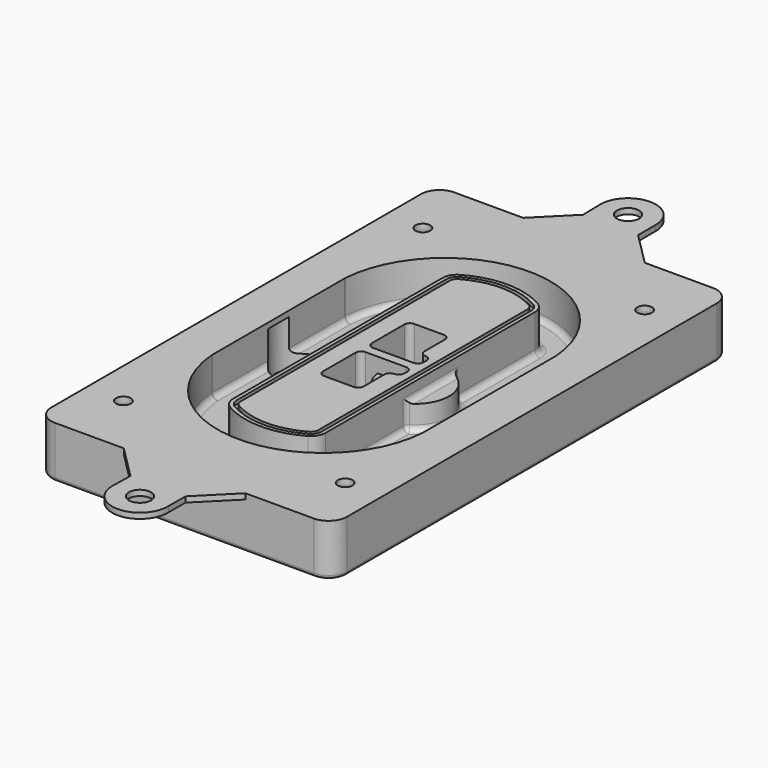
from build123d import *

# Parameters (mm, degrees)
F0_R      = 4
F1_DEPTH  = 25
F2_DEPTH  = 3
F3_DEPTH  = 18
F5_DEPTH  = 21
F6_DEPTH  = 2
F8_DEPTH  = 20
F9_DEPTH  = 16
F10_DEPTH = 25
F7_R      = 6
F7_R_2    = 4
F11_DEPTH = 6
F13_DEPTH = 9
F14_R     = 3
F15_R     = 2
F16_R     = 6
F16_R_2   = 4
F17_DEPTH = 3


with BuildPart() as f1:
    # F0 (on Top) → F1 (new body)
    with BuildSketch(Plane.XY):
        with BuildLine():
            ThreePointArc((-80, -125), (-77.0710678119, -132.0710678119), (-70, -135))
            Line((-70, -135), (70, -135))
            ThreePointArc((70, -135), (77.0710678119, -132.0710678119), (80, -125))
            Line((80, -125), (80, 125))
            ThreePointArc((80, 125), (77.0710678119, 132.0710678119), (70, 135))
            Line((70, 135), (-70, 135))
            ThreePointArc((-70, 135), (-77.0710678119, 132.0710678119), (-80, 125))
            Line((-80, 125), (-80, -125))
        make_face()
        with Locations((-60, -101.25)):
            Circle(F0_R, mode=Mode.SUBTRACT)
        with Locations((60, -101.25)):
            Circle(F0_R, mode=Mode.SUBTRACT)
        with Locations((-60, 101.25)):
            Circle(F0_R, mode=Mode.SUBTRACT)
        with BuildLine():
            ThreePointArc((-64, 44.6627429245), (-63.991269098, 45.1571001106), (-63.9650872818, 45.650840699))
            ThreePointArc((-63.9650872818, 45.650840699), (0, 105.25), (63.9650872818, 45.650840699))
            ThreePointArc((63.9650872818, 45.650840699), (63.991269098, 45.1571001106), (64, 44.6627429245))
            Line((64, 44.6627429245), (64, -44.6627429245))
            ThreePointArc((64, -44.6627429245), (63.991269098, -45.1571001106), (63.9650872818, -45.650840699))
            ThreePointArc((63.9650872818, -45.650840699), (0, -105.25), (-63.9650872818, -45.650840699))
            ThreePointArc((-63.9650872818, -45.650840699), (-63.991269098, -45.1571001106), (-64, -44.6627429245))
            Line((-64, -44.6627429245), (-64, 44.6627429245))
        make_face(mode=Mode.SUBTRACT)
        with Locations((60, 101.25)):
            Circle(F0_R, mode=Mode.SUBTRACT)
        with BuildLine():
            ThreePointArc((63.9650872818, 45.650840699), (0, 105.25), (-63.9650872818, 45.650840699))
            ThreePointArc((-63.9650872818, 45.650840699), (-63.991269098, 45.1571001106), (-64, 44.6627429245))
            Line((-64, 44.6627429245), (-64, -44.6627429245))
            ThreePointArc((-64, -44.6627429245), (-63.991269098, -45.1571001106), (-63.9650872818, -45.650840699))
            ThreePointArc((-63.9650872818, -45.650840699), (0, -105.25), (63.9650872818, -45.650840699))
            ThreePointArc((63.9650872818, -45.650840699), (63.991269098, -45.1571001106), (64, -44.6627429245))
            Line((64, -44.6627429245), (64, 44.6627429245))
            ThreePointArc((64, 44.6627429245), (63.991269098, 45.1571001106), (63.9650872818, 45.650840699))
        make_face()
        with BuildLine():
            Line((-60, -44.6627429245), (-60, 44.6627429245))
            ThreePointArc((-60, 44.6627429245), (-59.9937636414, 45.0158552003), (-59.9750623441, 45.3685270491))
            ThreePointArc((-59.9750623441, 45.3685270491), (0, 101.25), (59.9750623441, 45.3685270491))
            ThreePointArc((59.9750623441, 45.3685270491), (59.9937636414, 45.0158552003), (60, 44.6627429245))
            Line((60, 44.6627429245), (60, -44.6627429245))
            ThreePointArc((60, -44.6627429245), (59.9937636414, -45.0158552003), (59.9750623441, -45.3685270491))
            ThreePointArc((59.9750623441, -45.3685270491), (0, -101.25), (-59.9750623441, -45.3685270491))
            ThreePointArc((-59.9750623441, -45.3685270491), (-59.9937636414, -45.0158552003), (-60, -44.6627429245))
        make_face(mode=Mode.SUBTRACT)
        with BuildLine():
            ThreePointArc((-59.9750623441, 45.3685270491), (-59.9937636414, 45.0158552003), (-60, 44.6627429245))
            Line((-60, 44.6627429245), (-60, -44.6627429245))
            ThreePointArc((-60, -44.6627429245), (-59.9937636414, -45.0158552003), (-59.9750623441, -45.3685270491))
            ThreePointArc((-59.9750623441, -45.3685270491), (0, -101.25), (59.9750623441, -45.3685270491))
            ThreePointArc((59.9750623441, -45.3685270491), (59.9937636414, -45.0158552003), (60, -44.6627429245))
            Line((60, -44.6627429245), (60, 44.6627429245))
            ThreePointArc((60, 44.6627429245), (59.9937636414, 45.0158552003), (59.9750623441, 45.3685270491))
            ThreePointArc((59.9750623441, 45.3685270491), (0, 101.25), (-59.9750623441, 45.3685270491))
        make_face()
        with BuildLine():
            ThreePointArc((56.9825436409, 45.1567918117), (56.995634549, 44.9099215176), (57, 44.6627429245))
            Line((57, 44.6627429245), (57, -44.6627429245))
            ThreePointArc((57, -44.6627429245), (56.995634549, -44.9099215176), (56.9825436409, -45.1567918117))
            ThreePointArc((56.9825436409, -45.1567918117), (0, -98.25), (-56.9825436409, -45.1567918117))
            ThreePointArc((-56.9825436409, -45.1567918117), (-56.995634549, -44.9099215176), (-57, -44.6627429245))
            Line((-57, -44.6627429245), (-57, 44.6627429245))
            ThreePointArc((-57, 44.6627429245), (-56.995634549, 44.9099215176), (-56.9825436409, 45.1567918117))
            ThreePointArc((-56.9825436409, 45.1567918117), (0, 98.25), (56.9825436409, 45.1567918117))
        make_face(mode=Mode.SUBTRACT)
        with BuildLine():
            Line((57, -44.6627429245), (57, 44.6627429245))
            ThreePointArc((57, 44.6627429245), (56.995634549, 44.9099215176), (56.9825436409, 45.1567918117))
            ThreePointArc((56.9825436409, 45.1567918117), (0, 98.25), (-56.9825436409, 45.1567918117))
            ThreePointArc((-56.9825436409, 45.1567918117), (-56.995634549, 44.9099215176), (-57, 44.6627429245))
            Line((-57, 44.6627429245), (-57, -44.6627429245))
            ThreePointArc((-57, -44.6627429245), (-56.995634549, -44.9099215176), (-56.9825436409, -45.1567918117))
            ThreePointArc((-56.9825436409, -45.1567918117), (0, -98.25), (56.9825436409, -45.1567918117))
            ThreePointArc((56.9825436409, -45.1567918117), (56.995634549, -44.9099215176), (57, -44.6627429245))
        make_face()
    extrude(amount=-F1_DEPTH)

    # F0 (on Top) → F2 (join)
    with BuildSketch(Plane.XY):
        with BuildLine():
            ThreePointArc((-59.9750623441, 45.3685270491), (-59.9937636414, 45.0158552003), (-60, 44.6627429245))
            Line((-60, 44.6627429245), (-60, -44.6627429245))
            ThreePointArc((-60, -44.6627429245), (-59.9937636414, -45.0158552003), (-59.9750623441, -45.3685270491))
            ThreePointArc((-59.9750623441, -45.3685270491), (0, -101.25), (59.9750623441, -45.3685270491))
            ThreePointArc((59.9750623441, -45.3685270491), (59.9937636414, -45.0158552003), (60, -44.6627429245))
            Line((60, -44.6627429245), (60, 44.6627429245))
            ThreePointArc((60, 44.6627429245), (59.9937636414, 45.0158552003), (59.9750623441, 45.3685270491))
            ThreePointArc((59.9750623441, 45.3685270491), (0, 101.25), (-59.9750623441, 45.3685270491))
        make_face()
        with BuildLine():
            ThreePointArc((56.9825436409, 45.1567918117), (56.995634549, 44.9099215176), (57, 44.6627429245))
            Line((57, 44.6627429245), (57, -44.6627429245))
            ThreePointArc((57, -44.6627429245), (56.995634549, -44.9099215176), (56.9825436409, -45.1567918117))
            ThreePointArc((56.9825436409, -45.1567918117), (0, -98.25), (-56.9825436409, -45.1567918117))
            ThreePointArc((-56.9825436409, -45.1567918117), (-56.995634549, -44.9099215176), (-57, -44.6627429245))
            Line((-57, -44.6627429245), (-57, 44.6627429245))
            ThreePointArc((-57, 44.6627429245), (-56.995634549, 44.9099215176), (-56.9825436409, 45.1567918117))
            ThreePointArc((-56.9825436409, 45.1567918117), (0, 98.25), (56.9825436409, 45.1567918117))
        make_face(mode=Mode.SUBTRACT)
    extrude(amount=F2_DEPTH)

    # F0 (on Top) → F3 (cut)
    with BuildSketch(Plane.XY):
        with BuildLine():
            Line((57, -44.6627429245), (57, 44.6627429245))
            ThreePointArc((57, 44.6627429245), (56.995634549, 44.9099215176), (56.9825436409, 45.1567918117))
            ThreePointArc((56.9825436409, 45.1567918117), (0, 98.25), (-56.9825436409, 45.1567918117))
            ThreePointArc((-56.9825436409, 45.1567918117), (-56.995634549, 44.9099215176), (-57, 44.6627429245))
            Line((-57, 44.6627429245), (-57, -44.6627429245))
            ThreePointArc((-57, -44.6627429245), (-56.995634549, -44.9099215176), (-56.9825436409, -45.1567918117))
            ThreePointArc((-56.9825436409, -45.1567918117), (0, -98.25), (56.9825436409, -45.1567918117))
            ThreePointArc((56.9825436409, -45.1567918117), (56.995634549, -44.9099215176), (57, -44.6627429245))
        make_face()
    extrude(amount=-F3_DEPTH, mode=Mode.SUBTRACT)

    # F4 (on face) → F5 (join, through all)
    with BuildSketch(Plane.XY.offset(3)):
        with BuildLine():
            ThreePointArc((-25, -70.7141132851), (-23.9239722661, -74.7214325959), (-20.9853479853, -77.6507552274))
            ThreePointArc((-20.9853479853, -77.6507552274), (0, -83.25), (20.9853479853, -77.6507552274))
            ThreePointArc((20.9853479853, -77.6507552274), (23.9239722661, -74.7214325959), (25, -70.7141132851))
            Line((25, -70.7141132851), (25, 70.7141132851))
            ThreePointArc((25, 70.7141132851), (23.9239722661, 74.7214325959), (20.9853479853, 77.6507552274))
            ThreePointArc((20.9853479853, 77.6507552274), (0, 83.25), (-20.9853479853, 77.6507552274))
            ThreePointArc((-20.9853479853, 77.6507552274), (-23.9239722661, 74.7214325959), (-25, 70.7141132851))
            Line((-25, 70.7141132851), (-25, -70.7141132851))
        make_face()
        with BuildLine():
            ThreePointArc((19.989010989, 75.9165947419), (22.1929791996, 73.7196027682), (23, 70.7141132851))
            Line((23, 70.7141132851), (23, -70.7141132851))
            ThreePointArc((23, -70.7141132851), (22.1929791996, -73.7196027682), (19.989010989, -75.9165947419))
            ThreePointArc((19.989010989, -75.9165947419), (0, -81.25), (-19.989010989, -75.9165947419))
            ThreePointArc((-19.989010989, -75.9165947419), (-22.1929791996, -73.7196027682), (-23, -70.7141132851))
            Line((-23, -70.7141132851), (-23, 70.7141132851))
            ThreePointArc((-23, 70.7141132851), (-22.1929791996, 73.7196027682), (-19.989010989, 75.9165947419))
            ThreePointArc((-19.989010989, 75.9165947419), (0, 81.25), (19.989010989, 75.9165947419))
        make_face(mode=Mode.SUBTRACT)
        with BuildLine():
            Line((23, -70.7141132851), (23, 70.7141132851))
            ThreePointArc((23, 70.7141132851), (22.1929791996, 73.7196027682), (19.989010989, 75.9165947419))
            ThreePointArc((19.989010989, 75.9165947419), (0, 81.25), (-19.989010989, 75.9165947419))
            ThreePointArc((-19.989010989, 75.9165947419), (-22.1929791996, 73.7196027682), (-23, 70.7141132851))
            Line((-23, 70.7141132851), (-23, -70.7141132851))
            ThreePointArc((-23, -70.7141132851), (-22.1929791996, -73.7196027682), (-19.989010989, -75.9165947419))
            ThreePointArc((-19.989010989, -75.9165947419), (0, -81.25), (19.989010989, -75.9165947419))
            ThreePointArc((19.989010989, -75.9165947419), (22.1929791996, -73.7196027682), (23, -70.7141132851))
        make_face()
        with BuildLine():
            ThreePointArc((18.9926739927, 74.1824342563), (20.461986133, 72.7177729405), (21, 70.7141132851))
            Line((21, 70.7141132851), (21, -70.7141132851))
            ThreePointArc((21, -70.7141132851), (20.461986133, -72.7177729405), (18.9926739927, -74.1824342563))
            ThreePointArc((18.9926739927, -74.1824342563), (0, -79.25), (-18.9926739927, -74.1824342563))
            ThreePointArc((-18.9926739927, -74.1824342563), (-20.461986133, -72.7177729405), (-21, -70.7141132851))
            Line((-21, -70.7141132851), (-21, 70.7141132851))
            ThreePointArc((-21, 70.7141132851), (-20.461986133, 72.7177729405), (-18.9926739927, 74.1824342563))
            ThreePointArc((-18.9926739927, 74.1824342563), (0, 79.25), (18.9926739927, 74.1824342563))
        make_face(mode=Mode.SUBTRACT)
        with BuildLine():
            Line((21, -70.7141132851), (21, 70.7141132851))
            ThreePointArc((21, 70.7141132851), (20.461986133, 72.7177729405), (18.9926739927, 74.1824342563))
            ThreePointArc((18.9926739927, 74.1824342563), (0, 79.25), (-18.9926739927, 74.1824342563))
            ThreePointArc((-18.9926739927, 74.1824342563), (-20.461986133, 72.7177729405), (-21, 70.7141132851))
            Line((-21, 70.7141132851), (-21, -70.7141132851))
            ThreePointArc((-21, -70.7141132851), (-20.461986133, -72.7177729405), (-18.9926739927, -74.1824342563))
            ThreePointArc((-18.9926739927, -74.1824342563), (0, -79.25), (18.9926739927, -74.1824342563))
            ThreePointArc((18.9926739927, -74.1824342563), (20.461986133, -72.7177729405), (21, -70.7141132851))
        make_face()
        with BuildLine():
            Line((-8, -2.5), (14, -2.5))
            ThreePointArc((14, -2.5), (16.1213203436, -3.3786796564), (17, -5.5))
            Line((17, -5.5), (17, -7.5))
            ThreePointArc((17, -7.5), (16.1213203436, -9.6213203436), (14, -10.5))
            ThreePointArc((14, -10.5), (11.8786796564, -11.3786796564), (11, -13.5))
            Line((11, -13.5), (11, -27.5))
            ThreePointArc((11, -27.5), (10.1213203436, -29.6213203436), (8, -30.5))
            Line((8, -30.5), (-8, -30.5))
            ThreePointArc((-8, -30.5), (-10.1213203436, -29.6213203436), (-11, -27.5))
            Line((-11, -27.5), (-11, -5.5))
            ThreePointArc((-11, -5.5), (-10.1213203436, -3.3786796564), (-8, -2.5))
        make_face(mode=Mode.SUBTRACT)
        with BuildLine():
            ThreePointArc((-8, 2.5), (-10.1213203436, 3.3786796564), (-11, 5.5))
            Line((-11, 5.5), (-11, 27.5))
            ThreePointArc((-11, 27.5), (-10.1213203436, 29.6213203436), (-8, 30.5))
            Line((-8, 30.5), (8, 30.5))
            ThreePointArc((8, 30.5), (10.1213203436, 29.6213203436), (11, 27.5))
            Line((11, 27.5), (11, 13.5))
            ThreePointArc((11, 13.5), (11.8786796564, 11.3786796564), (14, 10.5))
            ThreePointArc((14, 10.5), (16.1213203436, 9.6213203436), (17, 7.5))
            Line((17, 7.5), (17, 5.5))
            ThreePointArc((17, 5.5), (16.1213203436, 3.3786796564), (14, 2.5))
            Line((14, 2.5), (-8, 2.5))
        make_face(mode=Mode.SUBTRACT)
    extrude(amount=-F5_DEPTH)

    # F4 (on face) → F6 (cut)
    with BuildSketch(Plane.XY.offset(3)):
        with BuildLine():
            Line((23, -70.7141132851), (23, 70.7141132851))
            ThreePointArc((23, 70.7141132851), (22.1929791996, 73.7196027682), (19.989010989, 75.9165947419))
            ThreePointArc((19.989010989, 75.9165947419), (0, 81.25), (-19.989010989, 75.9165947419))
            ThreePointArc((-19.989010989, 75.9165947419), (-22.1929791996, 73.7196027682), (-23, 70.7141132851))
            Line((-23, 70.7141132851), (-23, -70.7141132851))
            ThreePointArc((-23, -70.7141132851), (-22.1929791996, -73.7196027682), (-19.989010989, -75.9165947419))
            ThreePointArc((-19.989010989, -75.9165947419), (0, -81.25), (19.989010989, -75.9165947419))
            ThreePointArc((19.989010989, -75.9165947419), (22.1929791996, -73.7196027682), (23, -70.7141132851))
        make_face()
        with BuildLine():
            ThreePointArc((18.9926739927, 74.1824342563), (20.461986133, 72.7177729405), (21, 70.7141132851))
            Line((21, 70.7141132851), (21, -70.7141132851))
            ThreePointArc((21, -70.7141132851), (20.461986133, -72.7177729405), (18.9926739927, -74.1824342563))
            ThreePointArc((18.9926739927, -74.1824342563), (0, -79.25), (-18.9926739927, -74.1824342563))
            ThreePointArc((-18.9926739927, -74.1824342563), (-20.461986133, -72.7177729405), (-21, -70.7141132851))
            Line((-21, -70.7141132851), (-21, 70.7141132851))
            ThreePointArc((-21, 70.7141132851), (-20.461986133, 72.7177729405), (-18.9926739927, 74.1824342563))
            ThreePointArc((-18.9926739927, 74.1824342563), (0, 79.25), (18.9926739927, 74.1824342563))
        make_face(mode=Mode.SUBTRACT)
    extrude(amount=-F6_DEPTH, mode=Mode.SUBTRACT)

    # F7 (on face) → F8 (join)
    with BuildSketch(Plane(origin=(0, 0, -25), x_dir=(1, 0, 0), z_dir=(0, 0, -1))):
        with BuildLine():
            ThreePointArc((3.28842436, 0), (16.7567035675, 13.4682792075), (30.224982775, 0))
            Line((30.224982775, 0), (35.224982775, 0))
            ThreePointArc((35.224982775, 0), (16.7567035675, 18.4682792075), (-1.71157564, 0))
            Line((-1.71157564, 0), (3.28842436, 0))
        make_face()
        with BuildLine():
            Line((3.28842436, 0), (30.224982775, 0))
            ThreePointArc((30.224982775, 0), (16.7567035675, 13.4682792075), (3.28842436, 0))
        make_face()
        with BuildLine():
            ThreePointArc((3.28842436, 0), (16.7567035675, -13.4682792075), (30.224982775, 0))
            Line((30.224982775, 0), (3.28842436, 0))
        make_face()
        with BuildLine():
            Line((35.224982775, 0), (30.224982775, 0))
            ThreePointArc((30.224982775, 0), (16.7567035675, -13.4682792075), (3.28842436, 0))
            Line((3.28842436, 0), (-1.71157564, 0))
            ThreePointArc((-1.71157564, 0), (16.7567035675, -18.4682792075), (35.224982775, 0))
        make_face()
    extrude(amount=-F8_DEPTH)

    # F7 (on face) → F9 (cut)
    with BuildSketch(Plane(origin=(0, 0, -25), x_dir=(1, 0, 0), z_dir=(0, 0, -1))):
        with BuildLine():
            Line((3.28842436, 0), (30.224982775, 0))
            ThreePointArc((30.224982775, 0), (16.7567035675, 13.4682792075), (3.28842436, 0))
        make_face()
        with BuildLine():
            ThreePointArc((3.28842436, 0), (16.7567035675, -13.4682792075), (30.224982775, 0))
            Line((30.224982775, 0), (3.28842436, 0))
        make_face()
    extrude(amount=-F9_DEPTH, mode=Mode.SUBTRACT)

    # F7 (on face) → F10 (cut)
    with BuildSketch(Plane(origin=(0, 0, -25), x_dir=(1, 0, 0), z_dir=(0, 0, -1))):
        with BuildLine():
            Line((-59.0318229325, 0), (-32.0952645175, 0))
            ThreePointArc((-32.0952645175, 0), (-45.563543725, 13.4682792075), (-59.0318229325, 0))
        make_face()
        with BuildLine():
            ThreePointArc((-59.0318229325, 0), (-45.563543725, -13.4682792075), (-32.0952645175, 0))
            Line((-32.0952645175, 0), (-59.0318229325, 0))
        make_face()
    extrude(amount=-F10_DEPTH, mode=Mode.SUBTRACT)

    # F7 (on face) → F11 (cut)
    with BuildSketch(Plane(origin=(0, 0, -25), x_dir=(1, 0, 0), z_dir=(0, 0, -1))):
        with Locations((60, -101.25)):
            Circle(F7_R)
        with Locations((60, -101.25)):
            Circle(F7_R_2, mode=Mode.SUBTRACT)
        with Locations((60, -101.25)):
            Circle(F7_R)
        with Locations((60, -101.25)):
            Circle(F7_R_2, mode=Mode.SUBTRACT)
        with Locations((-60, -101.25)):
            Circle(F7_R)
        with Locations((-60, -101.25)):
            Circle(F7_R_2, mode=Mode.SUBTRACT)
        with Locations((-60, -101.25)):
            Circle(F7_R)
        with Locations((-60, -101.25)):
            Circle(F7_R_2, mode=Mode.SUBTRACT)
        with Locations((-60, 101.25)):
            Circle(F7_R)
        with Locations((-60, 101.25)):
            Circle(F7_R_2, mode=Mode.SUBTRACT)
        with Locations((-60, 101.25)):
            Circle(F7_R)
        with Locations((-60, 101.25)):
            Circle(F7_R_2, mode=Mode.SUBTRACT)
        with Locations((60, 101.25)):
            Circle(F7_R)
        with Locations((60, 101.25)):
            Circle(F7_R_2, mode=Mode.SUBTRACT)
        with Locations((60, 101.25)):
            Circle(F7_R)
        with Locations((60, 101.25)):
            Circle(F7_R_2, mode=Mode.SUBTRACT)
    extrude(amount=-F11_DEPTH, mode=Mode.SUBTRACT)

    # F12 (on face) → F13 (cut, through all)
    with BuildSketch(Plane(origin=(0, 0, -9), x_dir=(1, 0, 0), z_dir=(0, 0, -1))):
        with BuildLine():
            Line((11, 13.5), (11, 17.5481537753))
            ThreePointArc((11, 17.5481537753), (2.5696536419, 11.8239143813), (-1.5415842455, 2.5))
            Line((-1.5415842455, 2.5), (3.5224848595, 2.5))
            ThreePointArc((3.5224848595, 2.5), (6.1857188154, 8.3455872281), (11.2536447004, 12.2927168648))
            ThreePointArc((11.2536447004, 12.2927168648), (11.0640958889, 12.8831798879), (11, 13.5))
        make_face()
        with BuildLine():
            ThreePointArc((11.2536447004, -12.2927168648), (6.1857188154, -8.3455872281), (3.5224848595, -2.5))
            Line((3.5224848595, -2.5), (-1.5415842455, -2.5))
            ThreePointArc((-1.5415842455, -2.5), (2.5696536419, -11.8239143813), (11, -17.5481537753))
            Line((11, -17.5481537753), (11, -13.5))
            ThreePointArc((11, -13.5), (11.0640958889, -12.8831798879), (11.2536447004, -12.2927168648))
        make_face()
        with BuildLine():
            ThreePointArc((11.2536447004, 12.2927168648), (6.1857188154, 8.3455872281), (3.5224848595, 2.5))
            Line((3.5224848595, 2.5), (14, 2.5))
            ThreePointArc((14, 2.5), (16.1213203436, 3.3786796564), (17, 5.5))
            Line((17, 5.5), (17, 7.5))
            ThreePointArc((17, 7.5), (16.1213203436, 9.6213203436), (14, 10.5))
            ThreePointArc((14, 10.5), (12.3601599782, 10.9878446101), (11.2536447004, 12.2927168648))
        make_face()
        with BuildLine():
            Line((14, -2.5), (3.5224848595, -2.5))
            ThreePointArc((3.5224848595, -2.5), (6.1857188154, -8.3455872281), (11.2536447004, -12.2927168648))
            ThreePointArc((11.2536447004, -12.2927168648), (12.3601599782, -10.9878446101), (14, -10.5))
            ThreePointArc((14, -10.5), (16.1213203436, -9.6213203436), (17, -7.5))
            Line((17, -7.5), (17, -5.5))
            ThreePointArc((17, -5.5), (16.1213203436, -3.3786796564), (14, -2.5))
        make_face()
    extrude(amount=F13_DEPTH, mode=Mode.SUBTRACT)

    # F14
    f14_edges = [f1.edges().sort_by_distance(p)[0] for p in [
        (-57, -25.888126, -18),
        (-57, 25.888126, -18),
        (25, 0, -5),
        (25, 16.526506, -11.5),
        (25, -16.526506, -11.5),
        (25, -43.62031, -18),
        (35.224983, 0, -18),
    ]]
    fillet(f14_edges, radius=F14_R)

    # F15
    f15_edges = [f1.edges().sort_by_distance(p)[0] for p in [
        (0, -135, -25),
    ]]
    fillet(f15_edges, radius=F15_R)

    # F16 (on face) → F17 (join, through all)
    with BuildSketch(Plane.XY):
        with BuildLine():
            Line((15.0553624571, -153), (33.0553624571, -135))
            Line((33.0553624571, -135), (-32.7470726495, -135))
            Line((-32.7470726495, -135), (-14.7470726495, -153))
            Line((-14.7470726495, -153), (-14.996578508, -164.6796360627))
            ThreePointArc((-14.996578508, -164.6796360627), (0.0843797872, -179.9997626665), (14.9920251564, -164.5109379271))
            Line((14.9920251564, -164.5109379271), (15.0553624571, -153))
        make_face()
        with Locations((0, -165)):
            Circle(F16_R, mode=Mode.SUBTRACT)
        with BuildLine():
            Line((15.0553624571, 153), (14.9920251564, 164.5109379271))
            ThreePointArc((14.9920251564, 164.5109379271), (0.0843797872, 179.9997626665), (-14.996578508, 164.6796360627))
            Line((-14.996578508, 164.6796360627), (-14.7470726495, 153))
            Line((-14.7470726495, 153), (-32.7470726495, 135))
            Line((-32.7470726495, 135), (33.0553624571, 135))
            Line((33.0553624571, 135), (15.0553624571, 153))
        make_face()
        with Locations((0, 165)):
            Circle(F16_R, mode=Mode.SUBTRACT)
        with BuildLine():
            Line((70, 135), (33.0553624571, 135))
            Line((33.0553624571, 135), (-32.7470726495, 135))
            Line((-32.7470726495, 135), (-70, 135))
            ThreePointArc((-70, 135), (-77.0710678119, 132.0710678119), (-80, 125))
            Line((-80, 125), (-80, -125))
            ThreePointArc((-80, -125), (-77.0710678119, -132.0710678119), (-70, -135))
            Line((-70, -135), (-32.7470726495, -135))
            Line((-32.7470726495, -135), (33.0553624571, -135))
            Line((33.0553624571, -135), (70, -135))
            ThreePointArc((70, -135), (77.0710678119, -132.0710678119), (80, -125))
            Line((80, -125), (80, 125))
            ThreePointArc((80, 125), (77.0710678119, 132.0710678119), (70, 135))
        make_face()
        with Locations((-60, -101.25)):
            Circle(F16_R_2, mode=Mode.SUBTRACT)
        with Locations((60, -101.25)):
            Circle(F16_R_2, mode=Mode.SUBTRACT)
        with Locations((-60, 101.25)):
            Circle(F16_R_2, mode=Mode.SUBTRACT)
        with BuildLine():
            ThreePointArc((-60, 44.6627429245), (-59.9937636414, 45.0158552003), (-59.9750623441, 45.3685270491))
            ThreePointArc((-59.9750623441, 45.3685270491), (0, 101.25), (59.9750623441, 45.3685270491))
            ThreePointArc((59.9750623441, 45.3685270491), (59.9937636414, 45.0158552003), (60, 44.6627429245))
            Line((60, 44.6627429245), (60, -44.6627429245))
            ThreePointArc((60, -44.6627429245), (59.9937636414, -45.0158552003), (59.9750623441, -45.3685270491))
            ThreePointArc((59.9750623441, -45.3685270491), (0, -101.25), (-59.9750623441, -45.3685270491))
            ThreePointArc((-59.9750623441, -45.3685270491), (-59.9937636414, -45.0158552003), (-60, -44.6627429245))
            Line((-60, -44.6627429245), (-60, 44.6627429245))
        make_face(mode=Mode.SUBTRACT)
        with Locations((60, 101.25)):
            Circle(F16_R_2, mode=Mode.SUBTRACT)
    extrude(amount=F17_DEPTH)


solid = f1.part
